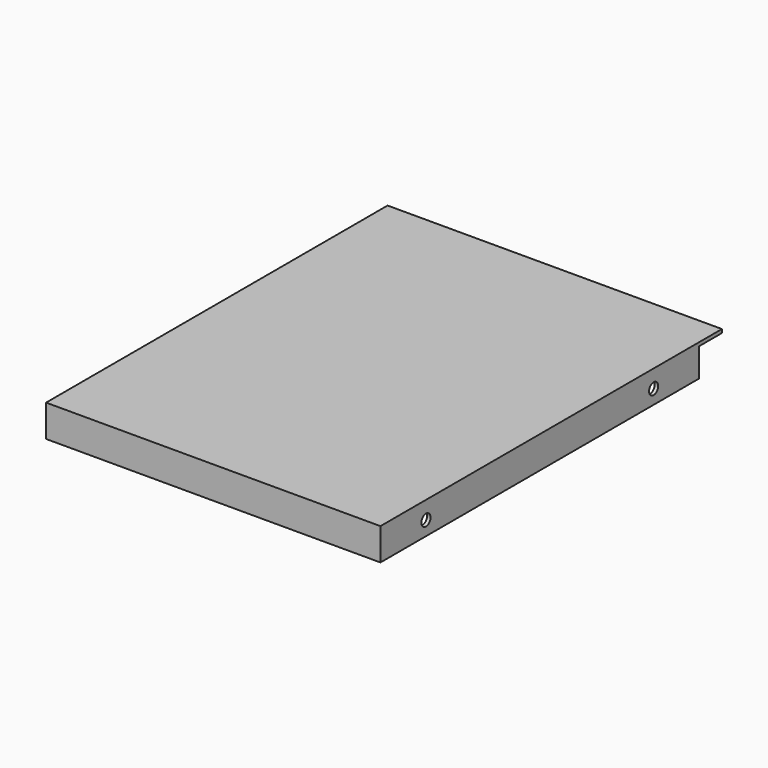
from build123d import *

# Parameters (mm, degrees)
F3_DEPTH = 12.7
F5_DEPTH = 1.5875
F6_R     = 2.5527
F7_DEPTH = 149.226


with BuildPart() as f3:
    # F2 (on offset) → F3 (new body)
    with BuildSketch(Plane.XY.offset(187.325)):
        Polygon((-73.025, 47.625), (-73.025, 223.8375), (-74.6125, 223.8375), (-74.6125, 46.0375), (74.6125, 46.0375), (74.6125, 223.8375), (73.025, 223.8375), (73.025, 47.625), align=None)
    extrude(amount=-F3_DEPTH)

    # F4 (on face) → F5 (join)
    with BuildSketch(Plane.XY.offset(187.325)):
        Polygon((-74.6125, 46.0375), (74.6125, 46.0375), (74.6125, 223.8375), (74.6125, 236.5375), (-74.6125, 236.5375), (-74.6125, 223.8375), align=None)
    extrude(amount=F5_DEPTH)

    # F6 (on face) → F7 (cut, through all)
    with BuildSketch(Plane.YZ.offset(74.6125)):
        with Locations((71.4375, 180.975)):
            Circle(F6_R)
        with Locations((198.4375, 180.975)):
            Circle(F6_R)
    extrude(amount=-F7_DEPTH, mode=Mode.SUBTRACT)


solid = f3.part
